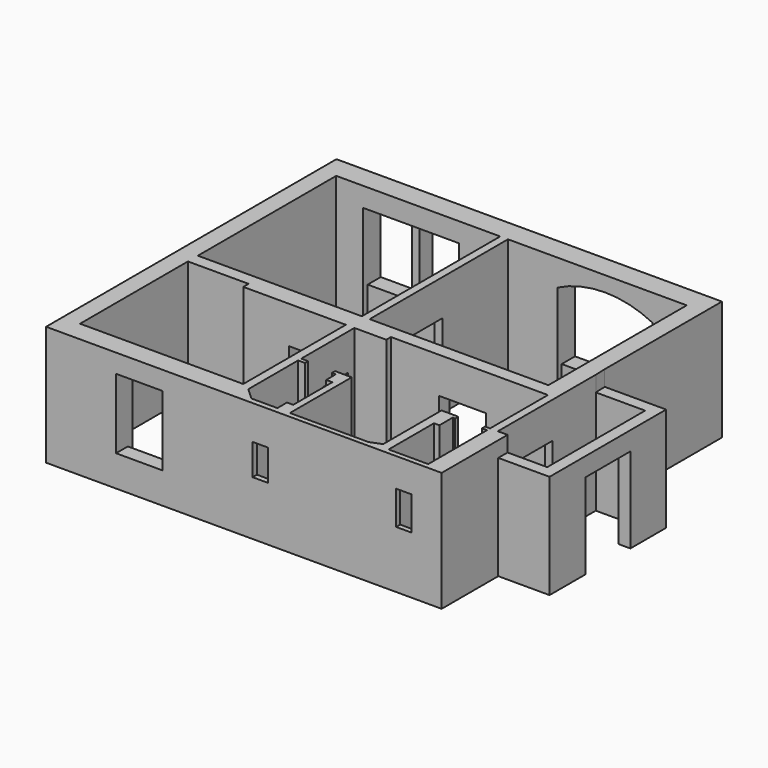
from build123d import *

# Parameters (mm, degrees)
F0_W      = 1270
F0_H      = 3150
F0_W_2    = 4220
F0_H_2    = 4450
F0_W_3    = 4600
F1_DEPTH  = 3080
F2_W      = 1200
F2_H      = 2150
F3_DEPTH  = 340
F4_W      = 1200
F4_H      = 370
F5_DEPTH  = 120
F6_W      = 1190
F6_H      = 2150
F7_DEPTH  = 200
F8_W      = 1450
F8_H      = 2200
F9_DEPTH  = 300
F10_W     = 840
F10_H     = 2520
F11_DEPTH = 300
F12_W     = 840
F12_H     = 2120
F13_DEPTH = 190
F14_W     = 820
F14_H     = 2150
F15_DEPTH = 220
F16_W     = 1200
F16_H     = 1800
F17_DEPTH = 530
F18_W     = 1135
F18_H     = 1800
F19_DEPTH = 570
F21_DEPTH = 570
F23_DEPTH = 400
F24_W     = 1710
F24_H     = 2150
F25_DEPTH = 200
F26_W     = 400
F26_H     = 800
F27_DEPTH = 140
F28_W     = 398.4251022339
F28_H     = 867.0030832291
F29_DEPTH = 130
F30_W     = 200
F30_H     = 1800
F31_DEPTH = 150
F32_W     = 2450
F32_H     = 610
F33_DEPTH = 140
F34_W     = 1200
F34_H     = 800
F35_DEPTH = 150


with BuildPart() as f1:
    # F0 (on Top) → F1 (new body)
    with BuildSketch(Plane.XY):
        Polygon((5050, 1250), (5050, 5020), (-4870, 5020), (-4870, -4320), (5310, -4320), (5310, -2500), (6630, -2500), (6630, 1250), align=None)
        Polygon((-2860, -490), (-220, -490), (-220, -3790), (-4420, -3790), (-4420, -320), (-2860, -320), align=None, mode=Mode.SUBTRACT)
        Polygon((0, -2200), (0, -490), (820, -490), (820, -340), (4860, -340), (4860, -2200), (4730, -2200), (4730, -2300), (4860, -2300), (4860, -4190), (3840, -4190), (3840, -2730), (3980, -2730), (3980, -2300), (4040, -2300), (4040, -2200), (3610, -2200), (3610, -4075.7907946323), (3320.6520080566, -4190), (1300, -4190), (1300, -2200), (870, -2200), (870, -2300), (970, -2300), (970, -2610), (1130, -2610), (1130, -3870), (970, -3870), (970, -4180), (300, -4180), (0, -3900), (0, -2300), (180, -2300), (180, -2200), align=None, mode=Mode.SUBTRACT)
        with Locations((5695, -625)):
            Rectangle(F0_W, F0_H, mode=Mode.SUBTRACT)
        with Locations((-2310, 2225)):
            Rectangle(F0_W_2, F0_H_2, mode=Mode.SUBTRACT)
        with Locations((2300, 2225)):
            Rectangle(F0_W_3, F0_H_2, mode=Mode.SUBTRACT)
    extrude(amount=F1_DEPTH)

    # F2 (on face) → F3 (cut, through all)
    with BuildSketch(Plane.XZ.offset(340)):
        with Locations((2661.8651390076, 1075)):
            Rectangle(F2_W, F2_H)
    extrude(amount=-F3_DEPTH, mode=Mode.SUBTRACT)

    # F4 (on face) → F5 (cut)
    with BuildSketch(Plane(origin=(0, 0, 0), x_dir=(-1, 0, 0), z_dir=(0, 1, 0))):
        with Locations((-2661.8651390076, 2335)):
            Rectangle(F4_W, F4_H)
    extrude(amount=-F5_DEPTH, mode=Mode.SUBTRACT)

    # F6 (on face) → F7 (cut, through all)
    with BuildSketch(Plane.YZ):
        with Locations((1745, 1075)):
            Rectangle(F6_W, F6_H)
    extrude(amount=-F7_DEPTH, mode=Mode.SUBTRACT)

    # F8 (on face) → F9 (cut, through all)
    with BuildSketch(Plane(origin=(6330, 0, 0), x_dir=(0, -1, 0), z_dir=(-1, 0, 0))):
        with Locations((625, 1100)):
            Rectangle(F8_W, F8_H)
    extrude(amount=-F9_DEPTH, mode=Mode.SUBTRACT)

    # F10 (on face) → F11 (cut)
    with BuildSketch(Plane(origin=(0, 0, 0), x_dir=(-1, 0, 0), z_dir=(0, 1, 0))):
        with Locations((1260, 1260)):
            Rectangle(F10_W, F10_H)
    extrude(amount=-F11_DEPTH, mode=Mode.SUBTRACT)

    # F12 (on face) → F13 (cut, through all)
    with BuildSketch(Plane(origin=(0, -300, 0), x_dir=(-1, 0, 0), z_dir=(0, 1, 0))):
        with Locations((1260, 1060)):
            Rectangle(F12_W, F12_H)
    extrude(amount=-F13_DEPTH, mode=Mode.SUBTRACT)

    # F14 (on face) → F15 (cut, through all)
    with BuildSketch(Plane(origin=(-220, 0, 0), x_dir=(0, -1, 0), z_dir=(-1, 0, 0))):
        with Locations((1100, 1075)):
            Rectangle(F14_W, F14_H)
    extrude(amount=-F15_DEPTH, mode=Mode.SUBTRACT)

    # F16 (on face) → F17 (cut, through all)
    with BuildSketch(Plane(origin=(0, -3790, 0), x_dir=(-1, 0, 0), z_dir=(0, 1, 0))):
        with Locations((2470, 1700)):
            Rectangle(F16_W, F16_H)
    extrude(amount=-F17_DEPTH, mode=Mode.SUBTRACT)

    # F18 (on face) → F19 (cut, through all)
    with BuildSketch(Plane.XZ.offset(-4450)):
        with Locations((-1827.5, 1680)):
            Rectangle(F18_W, F18_H)
        with Locations((-3162.5, 1680)):
            Rectangle(F18_W, F18_H)
    extrude(amount=-F19_DEPTH, mode=Mode.SUBTRACT)

    # F20 (on face) → F21 (cut, through all)
    with BuildSketch(Plane.XZ.offset(-4450)):
        with BuildLine():
            Line((1270, 610), (3720, 610))
            Line((3720, 610), (3720, 2400))
            ThreePointArc((3720, 2400), (2495, 2690), (1270, 2400))
            Line((1270, 2400), (1270, 610))
        make_face()
    extrude(amount=-F21_DEPTH, mode=Mode.SUBTRACT)

    # F22 (on face) → F23 (cut)
    with BuildSketch(Plane.XY.offset(3080)):
        Polygon((5310, -2200), (5310, -2500), (6630, -2500), (6630, 1250), (5050, 1250), (5060, 950), (6330, 950), (6330, -2200), align=None)
    extrude(amount=-F23_DEPTH, mode=Mode.SUBTRACT)

    # F24 (on face) → F25 (cut, through all)
    with BuildSketch(Plane(origin=(4860, 0, 0), x_dir=(0, -1, 0), z_dir=(-1, 0, 0))):
        with Locations((1295, 1075)):
            Rectangle(F24_W, F24_H)
    extrude(amount=-F25_DEPTH, mode=Mode.SUBTRACT)

    # F26 (on face) → F27 (cut, through all)
    with BuildSketch(Plane(origin=(0, -4180, 0), x_dir=(-1, 0, 0), z_dir=(0, 1, 0))):
        with Locations((-643.9814388752, 1800)):
            Rectangle(F26_W, F26_H)
    extrude(amount=-F27_DEPTH, mode=Mode.SUBTRACT)

    # F28 (on face) → F29 (cut, through all)
    with BuildSketch(Plane(origin=(0, -4190, 0), x_dir=(-1, 0, 0), z_dir=(0, 1, 0))):
        with Locations((-4338.1323814392, 1908.1470370293)):
            Rectangle(F28_W, F28_H)
    extrude(amount=-F29_DEPTH, mode=Mode.SUBTRACT)

    # F30 (on face) → F31 (cut)
    with BuildSketch(Plane.XZ.offset(-4450)):
        Polygon((-2595, 780), (-3730, 780), (-3730, 0), (-1260, 0), (-1260, 780), (-2395, 780), align=None)
        with Locations((-2495, 1680)):
            Rectangle(F30_W, F30_H)
    extrude(amount=-F31_DEPTH, mode=Mode.SUBTRACT)

    # F32 (on face) → F33 (cut)
    with BuildSketch(Plane.XZ.offset(-4450)):
        with Locations((2495, 305)):
            Rectangle(F32_W, F32_H)
        with Locations((2495, 305)):
            Rectangle(F32_W, F32_H)
    extrude(amount=-F33_DEPTH, mode=Mode.SUBTRACT)

    # F34 (on face) → F35 (cut)
    with BuildSketch(Plane(origin=(0, -3790, 0), x_dir=(-1, 0, 0), z_dir=(0, 1, 0))):
        with Locations((2470, 400)):
            Rectangle(F34_W, F34_H)
    extrude(amount=-F35_DEPTH, mode=Mode.SUBTRACT)


solid = f1.part
